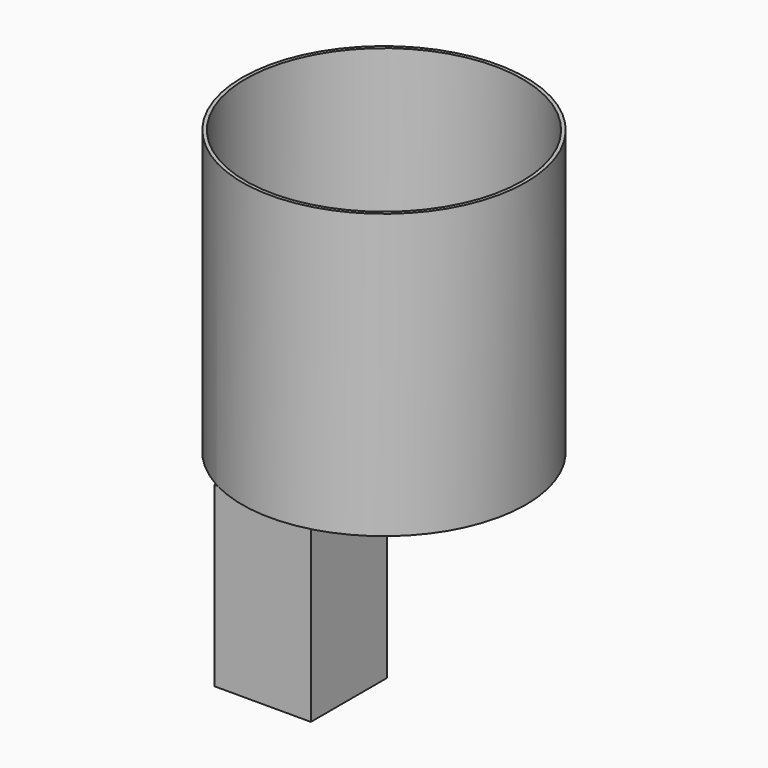
from build123d import *

# Parameters (mm, degrees)
F0_R     = 101.6
F1_DEPTH = 203.2
F2_T     = -2.54
F4_DEPTH = 127


with BuildPart() as f1:
    # F0 (on Top) → F1 (new body)
    with BuildSketch(Plane.XY):
        Circle(F0_R)
    extrude(amount=F1_DEPTH)

    # F2
    f2_openings = [f1.faces().sort_by_distance(p)[0] for p in [
        (0, 0, 203.2),
    ]]
    offset(amount=F2_T, openings=f2_openings)

    # F3 (on face) → F4 (join)
    with BuildSketch(Plane(origin=(0, 0, 0), x_dir=(1, 0, 0), z_dir=(0, 0, -1))):
        with BuildLine():
            ThreePointArc((-49.356736, 88.805814), (-48.279072, 89.39626), (-47.194345, 89.973629))
            Line((-47.194345, 89.973629), (-49.356736, 89.973629))
            Line((-49.356736, 89.973629), (-49.356736, 88.805814))
        make_face()
        with BuildLine():
            Line((19.613178, 21.691842), (19.613178, 89.973629))
            Line((19.613178, 89.973629), (-47.194345, 89.973629))
            ThreePointArc((-47.194345, 89.973629), (-48.279072, 89.39626), (-49.356736, 88.805814))
            Line((-49.356736, 88.805814), (-49.356736, 21.691842))
            Line((-49.356736, 21.691842), (19.613178, 21.691842))
        make_face()
    extrude(amount=F4_DEPTH)


solid = f1.part
